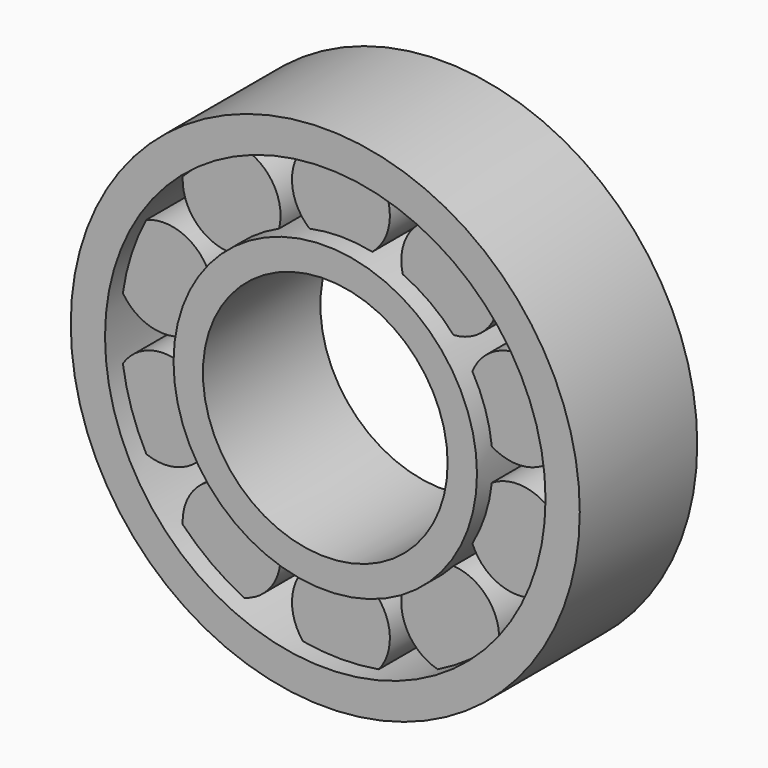
from build123d import *

# Parameters (mm, degrees)
F0_R     = 15.5
F0_R_2   = 12.5
F1_DEPTH = 15
F0_R_3   = 26
F0_R_4   = 22.5
F2_DEPTH = 15
F4_R     = 5
F5_DEPTH = 11
F6_COUNT = 10


with BuildPart() as f1:
    # F0 (on Front) → F1 (new body)
    with BuildSketch(Plane.XZ):
        Circle(F0_R)
        Circle(F0_R_2, mode=Mode.SUBTRACT)
    extrude(amount=-F1_DEPTH)



with BuildPart() as f2:
    # F0 (on Front) → F2 (new body)
    with BuildSketch(Plane.XZ):
        Circle(F0_R_3)
        Circle(F0_R_4, mode=Mode.SUBTRACT)
    extrude(amount=-F2_DEPTH)


with BuildPart() as f1_1:
    add(f1.part)

    add(f2.part)  # F5 merges F2
    # F4 (on offset) → F5 (join)
    with BuildSketch(Plane.XZ.offset(-2)):
        with Locations((0, 19)):
            Circle(F4_R)
    extrude(amount=-F5_DEPTH)

    # F6: F1 ×10 about axis
    f6_axis = Axis((0, 0, 0), (0, -1, 0))


with BuildPart() as f1_2:
    add(f1_1.part)
    for i in range(1, F6_COUNT):
        add(f1_1.part.rotate(f6_axis, i * 360 / F6_COUNT))


solid = f1_2.part
